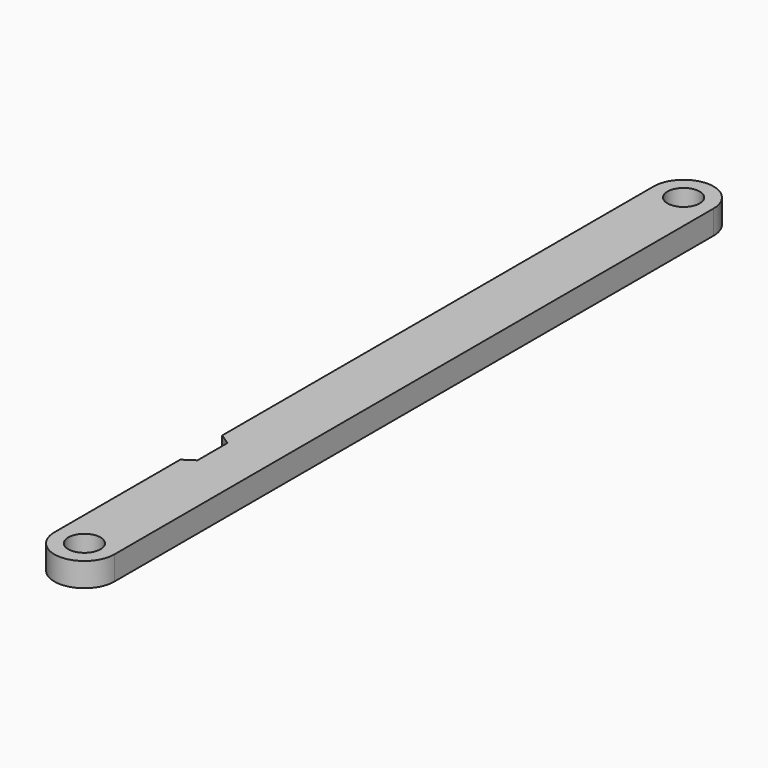
from build123d import *

# Parameters (mm, degrees)
F0_R     = 2.15
F1_DEPTH = 3.2
F3_DEPTH = 12.5


with BuildPart() as f1:
    # F0 (on Top) → F1 (new body)
    with BuildSketch(Plane.XY):
        with BuildLine():
            ThreePointArc((-8, 50), (-4, 46), (0, 50))
            ThreePointArc((0, 50), (-4, 54), (-8, 50))
        make_face()
        with Locations((-4, 50)):
            Circle(F0_R, mode=Mode.SUBTRACT)
        with BuildLine():
            Line((0, -50), (0, 50))
            ThreePointArc((0, 50), (-4, 46), (-8, 50))
            Line((-8, 50), (-8, -50))
            ThreePointArc((-8, -50), (-4, -46), (0, -50))
        make_face()
        with BuildLine():
            ThreePointArc((-8, -50), (-4, -54), (0, -50))
            ThreePointArc((0, -50), (-4, -46), (-8, -50))
        make_face()
        with Locations((-4, -50)):
            Circle(F0_R, mode=Mode.SUBTRACT)
    extrude(amount=F1_DEPTH)

    # F2 (on Top) → F3 (cut, symmetric)
    with BuildSketch(Plane.XY):
        Polygon((-6.5, -23), (-8, -22), (-8, -29), (-6.5, -28), align=None)
    extrude(amount=F3_DEPTH, both=True, mode=Mode.SUBTRACT)


solid = f1.part
